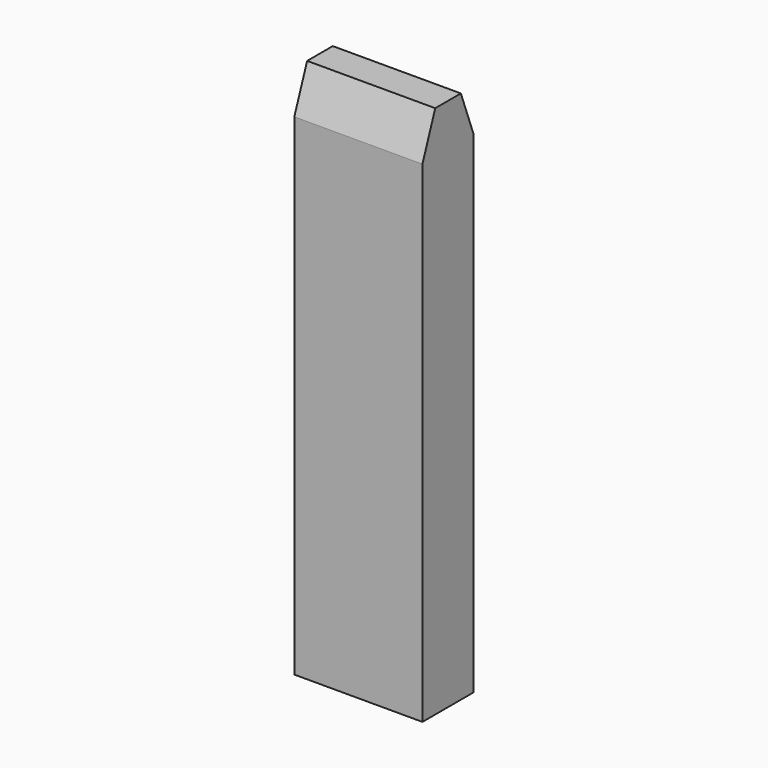
from build123d import *

# Parameters (mm, degrees)
F0_W     = 6
F0_H     = 3
F1_DEPTH = 25
F2_SIZE2 = 2
F2_SIZE  = 0.75


with BuildPart() as f1:
    # F0 (on Top) → F1 (new body)
    with BuildSketch(Plane.XY):
        with Locations((7.8895762563, -6.0613551888)):
            Rectangle(F0_W, F0_H)
    extrude(amount=F1_DEPTH)

    # F2
    f2_edges = [f1.edges().sort_by_distance(p)[0] for p in [
        (7.889576, -7.561355, 25),
        (7.889576, -4.561355, 25),
    ]]
    f2_side = f1.faces().sort_by_distance((7.889576, -6.061355, 25))[0]
    chamfer(f2_edges, length=F2_SIZE, length2=F2_SIZE2, reference=f2_side)


solid = f1.part
